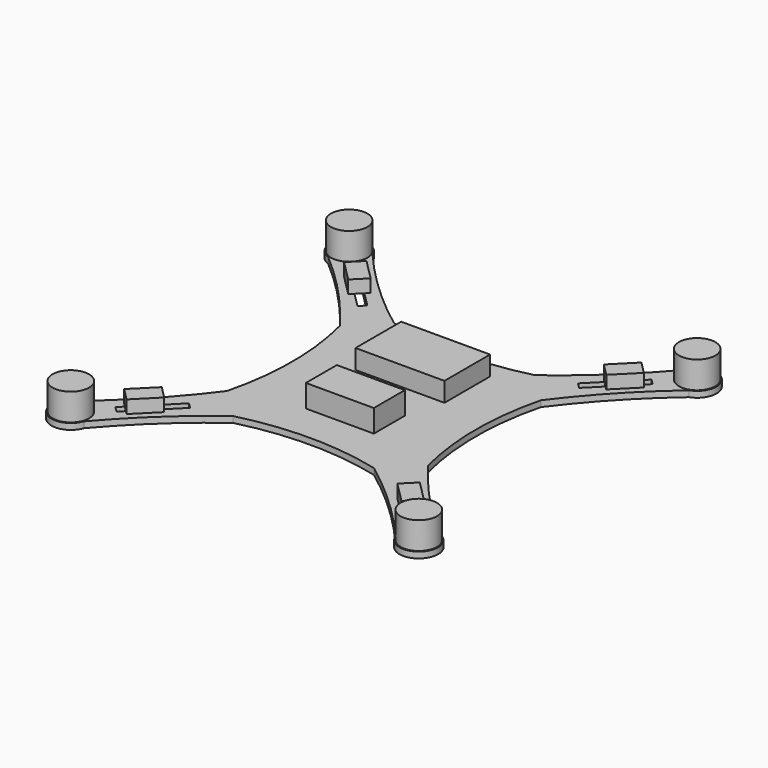
from build123d import *

# Parameters (mm, degrees)
F1_DEPTH = 4.7625
F2_R     = 14.351
F3_DEPTH = 21.336
F4_DEPTH = 10.16
F2_W     = 70.104
F2_H     = 44.958
F5_DEPTH = 15.24
F2_W_2   = 53.570382297
F2_H_2   = 30.4797645658
F6_DEPTH = 17.78
F7_SCALE = 0.96


with BuildPart() as f1:
    # F0 (on Top) → F1 (new body)
    with BuildSketch(Plane.XY):
        with BuildLine():
            ThreePointArc((-55.5763468146, 79.3343931437), (-90.9271049645, 108.8918614568), (-122.7753036062, 142.1936974142))
            ThreePointArc((-122.7753036062, 142.1936974142), (-147.9363073453, 147.9363073453), (-142.1936974142, 122.7753036062))
            ThreePointArc((-142.1936974142, 122.7753036062), (-108.8918614568, 90.9271049645), (-79.3343931437, 55.5763468146))
            ThreePointArc((-79.3343931437, 55.5763468146), (-72.3967482518, 0), (-79.3343931437, -55.5763468146))
            ThreePointArc((-79.3343931437, -55.5763468146), (-108.8918614568, -90.9271049645), (-142.1936974142, -122.7753036062))
            ThreePointArc((-142.1936974142, -122.7753036062), (-147.9363073453, -147.9363073453), (-122.7753036062, -142.1936974142))
            ThreePointArc((-122.7753036062, -142.1936974142), (-90.9271049645, -108.8918614568), (-55.5763468146, -79.3343931437))
            ThreePointArc((-55.5763468146, -79.3343931437), (0, -72.3967482518), (55.5763468146, -79.3343931437))
            ThreePointArc((55.5763468146, -79.3343931437), (90.9271049645, -108.8918614568), (122.7753036062, -142.1936974142))
            ThreePointArc((122.7753036062, -142.1936974142), (147.9363073453, -147.9363073453), (142.1936974142, -122.7753036062))
            ThreePointArc((142.1936974142, -122.7753036062), (108.8918614568, -90.9271049645), (79.3343931437, -55.5763468146))
            ThreePointArc((79.3343931437, -55.5763468146), (72.3967482518, 0), (79.3343931437, 55.5763468146))
            ThreePointArc((79.3343931437, 55.5763468146), (108.8918614568, 90.9271049645), (142.1936974142, 122.7753036062))
            ThreePointArc((142.1936974142, 122.7753036062), (147.9363073453, 147.9363073453), (122.7753036062, 142.1936974142))
            ThreePointArc((122.7753036062, 142.1936974142), (90.9271049645, 108.8918614568), (55.5763468146, 79.3343931437))
            ThreePointArc((55.5763468146, 79.3343931437), (0, 72.3967482518), (-55.5763468146, 79.3343931437))
        make_face()
        Polygon((-115.2469329536, -119.5561625063), (-119.5561625063, -115.2469329536), (-87.3443447053, -83.0351151526), (-83.0351151526, -87.3443447053), align=None, mode=Mode.SUBTRACT)
        Polygon((115.2469329536, -119.5561625063), (83.0351151526, -87.3443447053), (87.3443447053, -83.0351151526), (119.5561625063, -115.2469329536), align=None, mode=Mode.SUBTRACT)
        Polygon((-119.5561625063, 115.2469329536), (-117.40154773, 117.40154773), (-115.2469329536, 119.5561625063), (-83.0351151526, 87.3443447053), (-85.189729929, 85.189729929), (-87.3443447053, 83.0351151526), align=None, mode=Mode.SUBTRACT)
        Polygon((87.3443447053, 83.0351151526), (83.0351151526, 87.3443447053), (115.2469329536, 119.5561625063), (119.5561625063, 115.2469329536), align=None, mode=Mode.SUBTRACT)
    extrude(amount=F1_DEPTH)

    # F2 (on face) → F3 (join)
    with BuildSketch(Plane.XY.offset(4.7625)):
        with Locations((-137.16, 137.16)):
            Circle(F2_R)
        with Locations((137.16, 137.16)):
            Circle(F2_R)
        with Locations((137.16, -137.16)):
            Circle(F2_R)
        with Locations((-137.16, -137.16)):
            Circle(F2_R)
    extrude(amount=F3_DEPTH)

    # F2 (on face) → F4 (join)
    with BuildSketch(Plane.XY.offset(4.7625)):
        Polygon((-108.3536930382, 118.1755252182), (-111.1099943519, 115.4192239046), (-94.6341976523, 98.9434272051), (-91.8778963387, 101.6997285187), align=None)
        Polygon((-111.1099943519, 115.4192239046), (-113.2646091282, 113.2646091282), (-115.4192239046, 111.1099943519), (-98.9434272051, 94.6341976523), (-96.7888124287, 96.7888124287), (-94.6341976523, 98.9434272051), align=None)
        Polygon((-98.9434272051, 94.6341976523), (-115.4192239046, 111.1099943519), (-118.1755252182, 108.3536930382), (-101.6997285187, 91.8778963387), align=None)
        Polygon((118.1755252182, 108.3536930382), (115.4192239046, 111.1099943519), (98.9434272051, 94.6341976523), (101.6997285187, 91.8778963387), align=None)
        Polygon((115.4192239046, 111.1099943519), (113.2646091282, 113.2646091282), (111.1099943519, 115.4192239046), (94.6341976523, 98.9434272051), (96.7888124287, 96.7888124287), (98.9434272051, 94.6341976523), align=None)
        Polygon((94.6341976523, 98.9434272051), (111.1099943519, 115.4192239046), (108.3536930382, 118.1755252182), (91.8778963387, 101.6997285187), align=None)
        Polygon((91.8778963387, -101.6997285187), (108.3536930382, -118.1755252182), (111.1099943519, -115.4192239046), (94.6341976523, -98.9434272051), align=None)
        Polygon((94.6341976523, -98.9434272051), (111.1099943519, -115.4192239046), (113.2646091282, -113.2646091282), (115.4192239046, -111.1099943519), (98.9434272051, -94.6341976523), (96.7888124287, -96.7888124287), align=None)
        Polygon((98.9434272051, -94.6341976523), (115.4192239046, -111.1099943519), (118.1755252182, -108.3536930382), (101.6997285187, -91.8778963387), align=None)
        Polygon((-98.9434272051, -94.6341976523), (-101.6997285187, -91.8778963387), (-118.1755252182, -108.3536930382), (-115.4192239046, -111.1099943519), align=None)
        Polygon((-96.7888124287, -96.7888124287), (-98.9434272051, -94.6341976523), (-115.4192239046, -111.1099943519), (-113.2646091282, -113.2646091282), (-111.1099943519, -115.4192239046), (-94.6341976523, -98.9434272051), align=None)
        Polygon((-91.8778963387, -101.6997285187), (-94.6341976523, -98.9434272051), (-111.1099943519, -115.4192239046), (-108.3536930382, -118.1755252182), align=None)
    extrude(amount=F4_DEPTH)

    # F2 (on face) → F5 (join)
    with BuildSketch(Plane.XY.offset(4.7625)):
        with Locations((0, 38.2346063852)):
            Rectangle(F2_W, F2_H)
    extrude(amount=F5_DEPTH)

    # F2 (on face) → F6 (join)
    with BuildSketch(Plane.XY.offset(4.7625)):
        with Locations((0, -28.266698122)):
            Rectangle(F2_W_2, F2_H_2)
    extrude(amount=F6_DEPTH)


with BuildPart() as f1_1:
    # F7: moved
    add(f1.part.scale(F7_SCALE))


solid = f1_1.part
